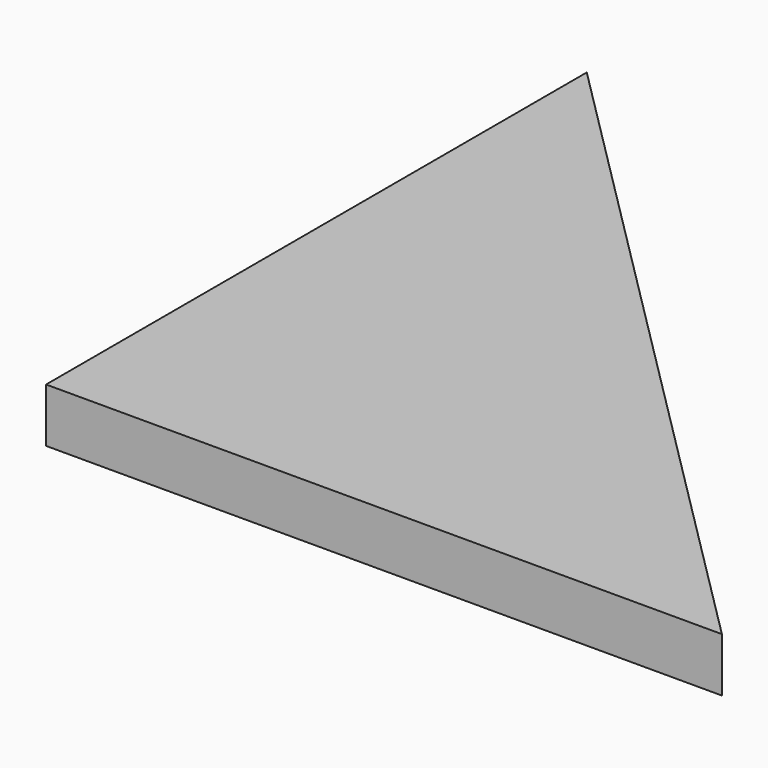
from build123d import *

# Parameters (mm, degrees)
PAD_DEPTH = 4


with BuildPart() as part:
    # Sketch → Pad (new body)
    with BuildSketch(Plane.XY):
        Polygon((0, 50), (0, 0), (50, 0), align=None)
    extrude(amount=PAD_DEPTH)


solid = part.part
